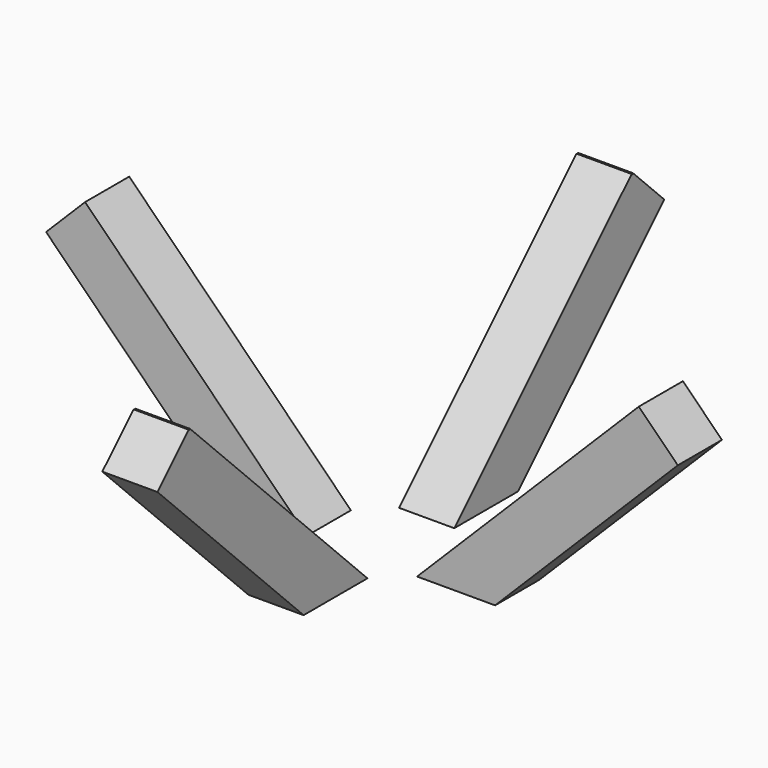
from build123d import *

# Parameters (mm, degrees)
F1_DEPTH = 0.635
F3_DEPTH = 0.635


with BuildPart() as f1:
    # F0 (on Front) → F1 (new body, symmetric)
    with BuildSketch(Plane.XZ):
        Polygon((-3.066051, 0), (-1.27, 0), (-6.374387, 5.104387), (-7.272413, 4.206362), align=None)
        Polygon((7.272413, 4.206362), (6.374387, 5.104387), (1.27, 0), (3.066051, 0), align=None)
    extrude(amount=F1_DEPTH, both=True)


with BuildPart() as f3:
    # F2 (on Right) → F3 (new body, symmetric)
    with BuildSketch(Plane.YZ):
        Polygon((-3.066051, 0.015338), (-1.311318, 0.015338), (-6.395046, 5.099066), (-7.272413, 4.2217), align=None)
        Polygon((-6.395046, 5.099066), (-1.311318, 0.015338), (-1.27, 0.015338), (-6.374387, 5.119725), align=None)
        Polygon((-7.272413, 4.2217), (-6.395046, 5.099066), (-6.415706, 5.119725), (-7.313731, 4.2217), (-3.10737, 0.015338), (-3.066051, 0.015338), align=None)
        Polygon((6.353728, 5.099066), (6.333069, 5.119725), (1.228682, 0.015338), (1.27, 0.015338), align=None)
        Polygon((6.374387, 5.119725), (6.353728, 5.099066), (7.231094, 4.2217), (3.024733, 0.015338), (3.066051, 0.015338), (7.272413, 4.2217), align=None)
        Polygon((7.231094, 4.2217), (6.353728, 5.099066), (1.27, 0.015338), (3.024733, 0.015338), align=None)
    extrude(amount=F3_DEPTH, both=True)


solid = Compound([f1.part, f3.part])
